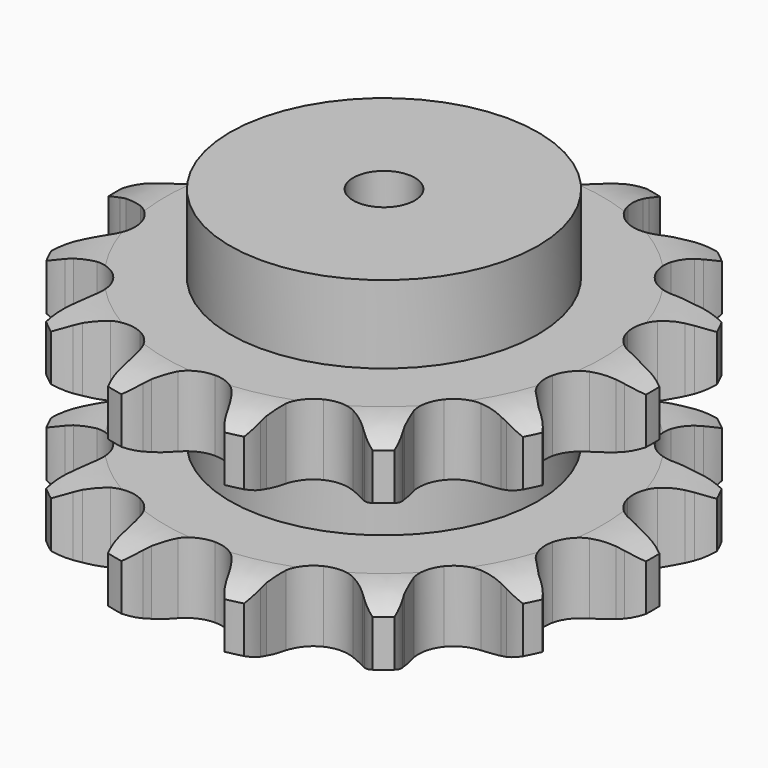
from build123d import *

# Parameters (mm, degrees)
PAD_DEPTH         = 88.4
SKETCH001_R       = 62.5
PAD001_DEPTH      = 120
SKETCH002_R       = 12.5
POCKET_DEPTH      = 0.001
POCKET_DEPTH_BACK = 120.001


with BuildPart() as part:
    # Sprocket → Pad (new body)
    with BuildSketch(Plane.XY):
        with BuildLine():
            ThreePointArc((-25.289773, 110.801735), (-20.442831, 106.576314), (-16.925338, 101.193539))
            Line((-16.925338, 101.193539), (-15.639157, 98.470846))
            ThreePointArc((-15.639157, 98.470846), (-13.497293, 94.572508), (-10.896307, 90.964256))
            ThreePointArc((-10.896307, 90.964256), (-6.029013, 87.156621), (0, 85.800293))
            ThreePointArc((0, 85.800293), (6.029013, 87.156621), (10.896307, 90.964256))
            ThreePointArc((10.896307, 90.964256), (13.497293, 94.572508), (15.639157, 98.470846))
            Line((15.639157, 98.470846), (16.925338, 101.193539))
            ThreePointArc((16.925338, 101.193539), (20.442831, 106.576314), (25.289773, 110.801735))
            ThreePointArc((25.289773, 110.801735), (27.823376, 104.891753), (28.657029, 98.515857))
            Line((28.657029, 98.515857), (28.634505, 95.504743))
            ThreePointArc((28.634505, 95.504743), (28.872833, 91.063142), (29.650678, 86.683693))
            ThreePointArc((29.650678, 86.683693), (32.383887, 81.141293), (37.227352, 77.303393))
            ThreePointArc((37.227352, 77.303393), (43.247794, 75.909511), (49.285144, 77.228232))
            Line((49.285144, 77.228232), (56.815293, 81.933591))
            ThreePointArc((56.815293, 81.933591), (57.965775, 82.905284), (59.155434, 83.8286))
            ThreePointArc((59.155434, 83.8286), (64.660084, 87.15213), (70.860369, 88.856092))
            ThreePointArc((70.860369, 88.856092), (70.578821, 82.432094), (68.563519, 76.325902))
            Line((68.563519, 76.325902), (67.236753, 73.622754))
            ThreePointArc((67.236753, 73.622754), (65.52434, 69.517603), (64.324983, 65.234361))
            ThreePointArc((64.324983, 65.234361), (64.382762, 59.054937), (67.081371, 53.495608))
            ThreePointArc((67.081371, 53.495608), (71.900819, 49.627592), (77.912455, 48.19621))
            Line((77.912455, 48.19621), (86.738463, 49.168383))
            ThreePointArc((86.738463, 49.168383), (88.196614, 49.544673), (89.66907, 49.860378))
            ThreePointArc((89.66907, 49.860378), (96.070614, 50.466397), (102.3962, 49.311411))
            ThreePointArc((102.3962, 49.311411), (99.355266, 43.645747), (94.890164, 39.018665))
            Line((94.890164, 39.018665), (92.521937, 37.158875))
            ThreePointArc((92.521937, 37.158875), (89.197948, 34.203251), (86.258936, 30.864565))
            ThreePointArc((86.258936, 30.864565), (83.629841, 25.272026), (83.649101, 19.092361))
            ThreePointArc((83.649101, 19.092361), (86.313004, 13.516319), (91.108248, 9.618338))
            Line((91.108248, 9.618338), (99.482017, 6.664774))
            ThreePointArc((99.482017, 6.664774), (100.959031, 6.371131), (102.422648, 6.016697))
            ThreePointArc((102.422648, 6.016697), (108.453181, 3.785175), (113.651208, 0))
            ThreePointArc((113.651208, 0), (108.453181, -3.785175), (102.422648, -6.016697))
            Line((102.422648, -6.016697), (99.482017, -6.664774))
            ThreePointArc((99.482017, -6.664774), (95.204808, -7.885475), (91.108248, -9.618338))
            ThreePointArc((91.108248, -9.618338), (86.313004, -13.516319), (83.649101, -19.092361))
            ThreePointArc((83.649101, -19.092361), (83.629841, -25.272026), (86.258936, -30.864565))
            Line((86.258936, -30.864565), (92.521937, -37.158875))
            ThreePointArc((92.521937, -37.158875), (93.725274, -38.064291), (94.890164, -39.018665))
            ThreePointArc((94.890164, -39.018665), (99.355266, -43.645747), (102.3962, -49.311411))
            ThreePointArc((102.3962, -49.311411), (96.070614, -50.466397), (89.66907, -49.860378))
            Line((89.66907, -49.860378), (86.738463, -49.168383))
            ThreePointArc((86.738463, -49.168383), (82.355189, -48.412386), (77.912455, -48.19621))
            ThreePointArc((77.912455, -48.19621), (71.900819, -49.627592), (67.081371, -53.495608))
            ThreePointArc((67.081371, -53.495608), (64.382762, -59.054937), (64.324983, -65.234361))
            Line((64.324983, -65.234361), (67.236753, -73.622754))
            ThreePointArc((67.236753, -73.622754), (67.928077, -74.960614), (68.563519, -76.325902))
            ThreePointArc((68.563519, -76.325902), (70.578821, -82.432094), (70.860369, -88.856092))
            ThreePointArc((70.860369, -88.856092), (64.660084, -87.15213), (59.155434, -83.8286))
            Line((59.155434, -83.8286), (56.815293, -81.933591))
            ThreePointArc((56.815293, -81.933591), (53.194115, -79.35063), (49.285144, -77.228232))
            ThreePointArc((49.285144, -77.228232), (43.247794, -75.909511), (37.227352, -77.303393))
            ThreePointArc((37.227352, -77.303393), (32.383887, -81.141293), (29.650678, -86.683693))
            Line((29.650678, -86.683693), (28.634505, -95.504743))
            ThreePointArc((28.634505, -95.504743), (28.676892, -97.010067), (28.657029, -98.515857))
            ThreePointArc((28.657029, -98.515857), (27.823376, -104.891753), (25.289773, -110.801735))
            ThreePointArc((25.289773, -110.801735), (20.442831, -106.576314), (16.925338, -101.193539))
            Line((16.925338, -101.193539), (15.639157, -98.470846))
            ThreePointArc((15.639157, -98.470846), (13.497293, -94.572508), (10.896307, -90.964256))
            ThreePointArc((10.896307, -90.964256), (6.029013, -87.156621), (0, -85.800293))
            ThreePointArc((0, -85.800293), (-6.029013, -87.156621), (-10.896307, -90.964256))
            Line((-10.896307, -90.964256), (-15.639157, -98.470846))
            ThreePointArc((-15.639157, -98.470846), (-16.254104, -99.845487), (-16.925338, -101.193539))
            ThreePointArc((-16.925338, -101.193539), (-20.442831, -106.576314), (-25.289773, -110.801735))
            ThreePointArc((-25.289773, -110.801735), (-27.823376, -104.891753), (-28.657029, -98.515857))
            Line((-28.657029, -98.515857), (-28.634505, -95.504743))
            ThreePointArc((-28.634505, -95.504743), (-28.872833, -91.063142), (-29.650678, -86.683693))
            ThreePointArc((-29.650678, -86.683693), (-32.383887, -81.141293), (-37.227352, -77.303393))
            ThreePointArc((-37.227352, -77.303393), (-43.247794, -75.909511), (-49.285144, -77.228232))
            Line((-49.285144, -77.228232), (-56.815293, -81.933591))
            ThreePointArc((-56.815293, -81.933591), (-57.965775, -82.905284), (-59.155434, -83.8286))
            ThreePointArc((-59.155434, -83.8286), (-64.660084, -87.15213), (-70.860369, -88.856092))
            ThreePointArc((-70.860369, -88.856092), (-70.578821, -82.432094), (-68.563519, -76.325902))
            Line((-68.563519, -76.325902), (-67.236753, -73.622754))
            ThreePointArc((-67.236753, -73.622754), (-65.52434, -69.517603), (-64.324983, -65.234361))
            ThreePointArc((-64.324983, -65.234361), (-64.382762, -59.054937), (-67.081371, -53.495608))
            ThreePointArc((-67.081371, -53.495608), (-71.900819, -49.627592), (-77.912455, -48.19621))
            Line((-77.912455, -48.19621), (-86.738463, -49.168383))
            ThreePointArc((-86.738463, -49.168383), (-88.196614, -49.544673), (-89.66907, -49.860378))
            ThreePointArc((-89.66907, -49.860378), (-96.070614, -50.466397), (-102.3962, -49.311411))
            ThreePointArc((-102.3962, -49.311411), (-99.355266, -43.645747), (-94.890164, -39.018665))
            Line((-94.890164, -39.018665), (-92.521937, -37.158875))
            ThreePointArc((-92.521937, -37.158875), (-89.197948, -34.203251), (-86.258936, -30.864565))
            ThreePointArc((-86.258936, -30.864565), (-83.629841, -25.272026), (-83.649101, -19.092361))
            ThreePointArc((-83.649101, -19.092361), (-86.313004, -13.516319), (-91.108248, -9.618338))
            Line((-91.108248, -9.618338), (-99.482017, -6.664774))
            ThreePointArc((-99.482017, -6.664774), (-100.959031, -6.371131), (-102.422648, -6.016697))
            ThreePointArc((-102.422648, -6.016697), (-108.453181, -3.785175), (-113.651208, 0))
            ThreePointArc((-113.651208, 0), (-108.453181, 3.785175), (-102.422648, 6.016697))
            Line((-102.422648, 6.016697), (-99.482017, 6.664774))
            ThreePointArc((-99.482017, 6.664774), (-95.204808, 7.885475), (-91.108248, 9.618338))
            ThreePointArc((-91.108248, 9.618338), (-86.313004, 13.516319), (-83.649101, 19.092361))
            ThreePointArc((-83.649101, 19.092361), (-83.629841, 25.272026), (-86.258936, 30.864565))
            Line((-86.258936, 30.864565), (-92.521937, 37.158875))
            ThreePointArc((-92.521937, 37.158875), (-93.725274, 38.064291), (-94.890164, 39.018665))
            ThreePointArc((-94.890164, 39.018665), (-99.355266, 43.645747), (-102.3962, 49.311411))
            ThreePointArc((-102.3962, 49.311411), (-96.070614, 50.466397), (-89.66907, 49.860378))
            Line((-89.66907, 49.860378), (-86.738463, 49.168383))
            ThreePointArc((-86.738463, 49.168383), (-82.355189, 48.412386), (-77.912455, 48.19621))
            ThreePointArc((-77.912455, 48.19621), (-71.900819, 49.627592), (-67.081371, 53.495608))
            ThreePointArc((-67.081371, 53.495608), (-64.382762, 59.054937), (-64.324983, 65.234361))
            Line((-64.324983, 65.234361), (-67.236753, 73.622754))
            ThreePointArc((-67.236753, 73.622754), (-67.928077, 74.960614), (-68.563519, 76.325902))
            ThreePointArc((-68.563519, 76.325902), (-70.578821, 82.432094), (-70.860369, 88.856092))
            ThreePointArc((-70.860369, 88.856092), (-64.660084, 87.15213), (-59.155434, 83.8286))
            Line((-59.155434, 83.8286), (-56.815293, 81.933591))
            ThreePointArc((-56.815293, 81.933591), (-53.194115, 79.35063), (-49.285144, 77.228232))
            ThreePointArc((-49.285144, 77.228232), (-43.247794, 75.909511), (-37.227352, 77.303393))
            ThreePointArc((-37.227352, 77.303393), (-32.383887, 81.141293), (-29.650678, 86.683693))
            Line((-29.650678, 86.683693), (-28.634505, 95.504743))
            ThreePointArc((-28.634505, 95.504743), (-28.676892, 97.010067), (-28.657029, 98.515857))
            ThreePointArc((-28.657029, 98.515857), (-27.823376, 104.891753), (-25.289773, 110.801735))
        make_face()
    extrude(amount=PAD_DEPTH)

    # Sketch → Groove (revolve, cut)
    with BuildSketch(Plane.XZ):
        with BuildLine():
            ThreePointArc((88.728451, 0), (99.21654, 1.268279), (109.1, 5))
            Line((109.1, 5), (109.1, 23.8))
            ThreePointArc((109.1, 23.8), (99.21654, 27.531721), (88.728451, 28.8))
            Line((62.5, 28.8), (88.728451, 28.8))
            Line((62.5, 59.6), (62.5, 28.8))
            Line((88.728451, 59.6), (62.5, 59.6))
            ThreePointArc((88.728451, 59.6), (99.21654, 60.868279), (109.1, 64.6))
            Line((109.1, 64.6), (109.1, 83.4))
            ThreePointArc((109.1, 83.4), (99.21654, 87.131721), (88.728451, 88.4))
            Line((88.728451, 88.4), (119.1, 88.4))
            Line((119.1, 88.4), (119.1, 0))
            Line((88.728451, 0), (119.1, 0))
        make_face()
    revolve(axis=Axis((0, 0, 0), (0, 0, 1)), mode=Mode.SUBTRACT)

    # Sketch001 → Pad001 (join)
    with BuildSketch(Plane.XY):
        Circle(SKETCH001_R)
    extrude(amount=PAD001_DEPTH)

    # Sketch002 → Pocket (cut, two sides)
    with BuildSketch(Plane.XY) as pocket_sk:
        Circle(SKETCH002_R)
    extrude(amount=-POCKET_DEPTH, mode=Mode.SUBTRACT)
    extrude(pocket_sk.sketch, amount=POCKET_DEPTH_BACK, mode=Mode.SUBTRACT)


solid = part.part
